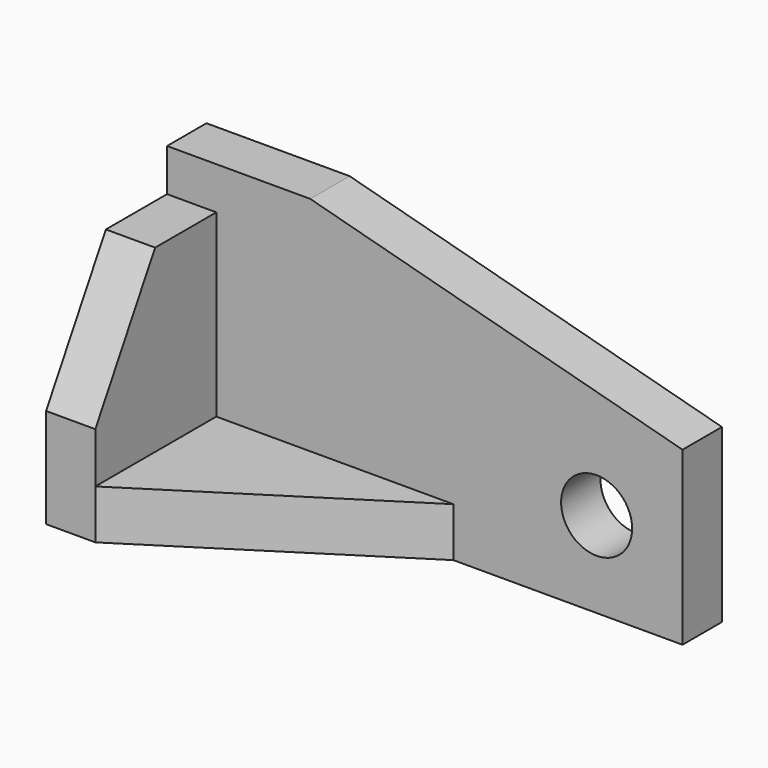
from build123d import *

# Parameters (mm, degrees)
F0_W     = 52.578
F0_H     = 10.922
F1_DEPTH = 10.922
F2_DEPTH = 33.528
F4_DEPTH = 25.4
F6_DEPTH = 25.4
F0_R     = 7.874
F7_DEPTH = 10.922


with BuildPart() as f1:
    # F0 (on Front) → F1 (new body)
    with BuildSketch(Plane.XZ):
        Polygon((-42.284315, 44.186799), (-53.206315, 44.186799), (-53.206315, -6.613201), (-42.284315, -6.613201), (-42.284315, 4.308799), align=None)
        with Locations((-15.995315, -1.152201)):
            Rectangle(F0_W, F0_H)
        with Locations((-15.995315, -1.152201)):
            Rectangle(F0_W, F0_H)
    extrude(amount=-F1_DEPTH)

    # F0 (on Front) → F2 (join)
    with BuildSketch(Plane.XZ):
        Polygon((-42.284315, 44.186799), (-53.206315, 44.186799), (-53.206315, -6.613201), (-42.284315, -6.613201), (-42.284315, 4.308799), align=None)
        with Locations((-15.995315, -1.152201)):
            Rectangle(F0_W, F0_H)
    extrude(amount=F2_DEPTH)

    # F3 (on face) → F4 (cut)
    with BuildSketch(Plane.YZ.offset(-42.284315)):
        Polygon((-33.528, 44.186799), (-33.528, 15.484799), (-16.956893, 44.186799), align=None)
    extrude(amount=-F4_DEPTH, mode=Mode.SUBTRACT)

    # F5 (on face) → F6 (cut)
    with BuildSketch(Plane.XY.offset(4.308799)):
        Polygon((10.293685, 0), (-42.284315, -33.528), (10.293685, -33.528), align=None)
    extrude(amount=-F6_DEPTH, mode=Mode.SUBTRACT)

    # F0 (on Front) → F7 (join)
    with BuildSketch(Plane.XZ):
        Polygon((-21.456315, 53.584799), (-53.206315, 53.584799), (-53.206315, 44.186799), (-42.284315, 44.186799), (-42.284315, 4.308799), (10.293685, 4.308799), (10.293685, -6.613201), (61.093685, -6.613201), (61.093685, 31.465593), align=None)
        with Locations((42.043685, 12.436799)):
            Circle(F0_R, mode=Mode.SUBTRACT)
    extrude(amount=-F7_DEPTH)


solid = f1.part
